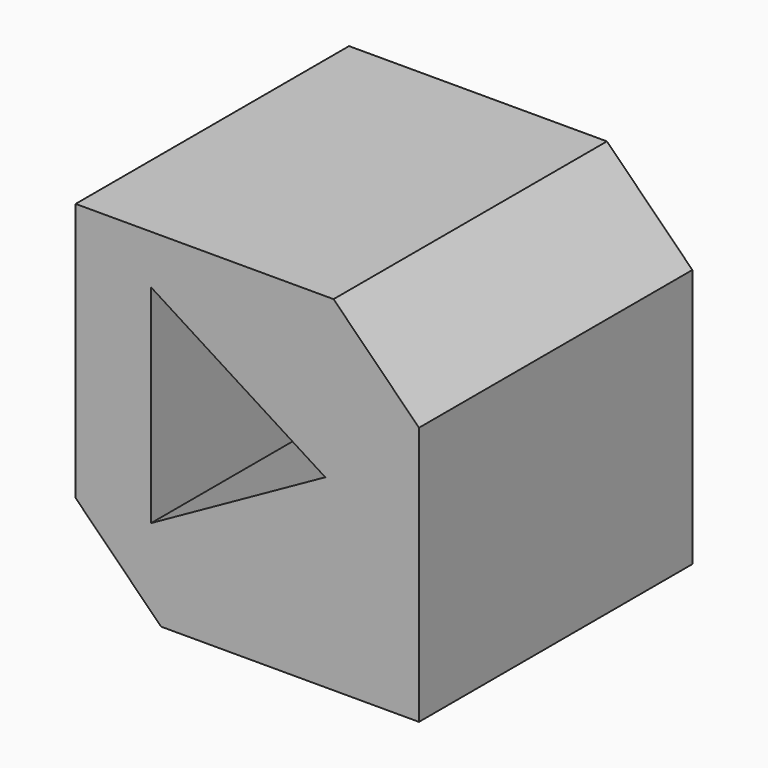
from build123d import *

# Parameters (mm, degrees)
F0_W     = 100.477673
F0_H     = 100.787793
F1_DEPTH = 100
F2_SIZE  = 25
F3_SIZE  = 25
F5_DEPTH = 100


with BuildPart() as f1:
    # F0 (on Front) → F1 (new body)
    with BuildSketch(Plane.XZ):
        with Locations((-14.575462, -13.490057)):
            Rectangle(F0_W, F0_H)
    extrude(amount=F1_DEPTH)

    # F2
    f2_edges = [f1.edges().sort_by_distance(p)[0] for p in [
        (35.663374, -50, 36.90384),
    ]]
    chamfer(f2_edges, length=F2_SIZE)

    # F3
    f3_edges = [f1.edges().sort_by_distance(p)[0] for p in [
        (-64.814299, -50, -63.883953),
    ]]
    chamfer(f3_edges, length=F3_SIZE)

    # F4 (on face) → F5 (cut)
    with BuildSketch(Plane.XZ.offset(100)):
        Polygon((-42.732559, 22.58721), (-42.732559, -38.154069), (8.241279, -9.767442), align=None)
    extrude(amount=-F5_DEPTH, mode=Mode.SUBTRACT)


solid = f1.part
